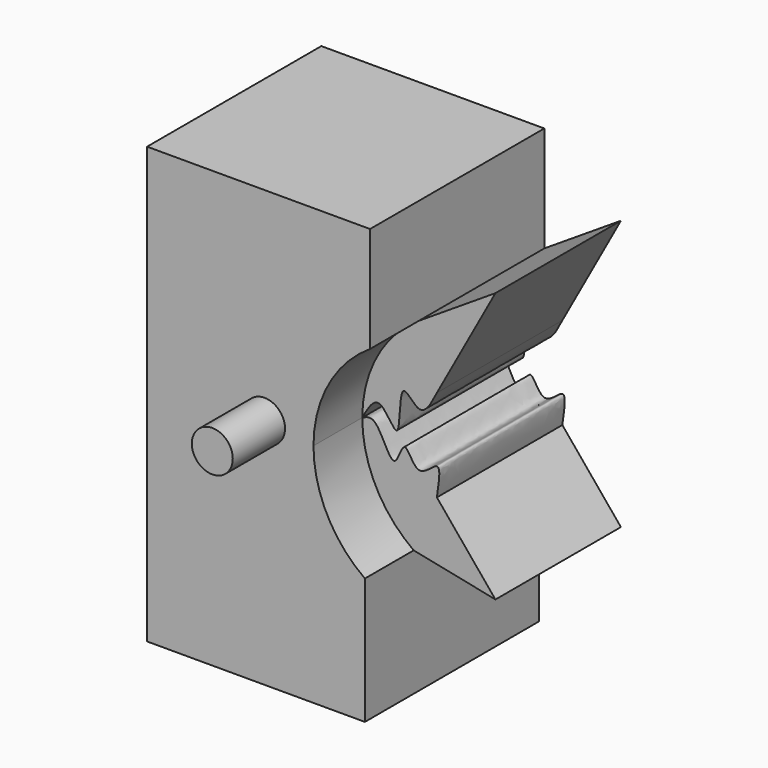
from build123d import *

# Parameters (mm, degrees)
F1_DEPTH = 25.4
F2_DEPTH = 18.288
F3_R     = 2.3874235121
F4_DEPTH = 7.62


with BuildPart() as f1:
    # F0 (on Front) → F1 (new body)
    with BuildSketch(Plane.XZ):
        with BuildLine():
            Line((-24.131346494, 56.3794554487), (-50.132939899, 56.3794554487))
            Line((-50.132939899, 56.3794554487), (-50.132939899, 5.5794554487))
            Line((-50.132939899, 5.5794554487), (-24.732939899, 5.5794554487))
            Line((-24.732939899, 5.5794554487), (-24.732939899, 20.3011780977))
            ThreePointArc((-24.732939899, 20.3011780977), (-29.1414600938, 25.4152489382), (-30.7276976446, 31.9782224489))
            ThreePointArc((-30.7276976446, 31.9782224489), (-28.9712672239, 38.862632279), (-24.131346494, 44.064104557))
            Line((-24.131346494, 44.064104557), (-24.131346494, 56.3794554487))
        make_face()
        with BuildLine():
            Line((-24.131346494, 56.3794554487), (-50.132939899, 56.3794554487))
            Line((-50.132939899, 56.3794554487), (-50.132939899, 5.5794554487))
            Line((-50.132939899, 5.5794554487), (-24.732939899, 5.5794554487))
            Line((-24.732939899, 5.5794554487), (-24.732939899, 20.3011780977))
            ThreePointArc((-24.732939899, 20.3011780977), (-29.1414600938, 25.4152489382), (-30.7276976446, 31.9782224489))
            ThreePointArc((-30.7276976446, 31.9782224489), (-28.9712672239, 38.862632279), (-24.131346494, 44.064104557))
            Line((-24.131346494, 44.064104557), (-24.131346494, 56.3794554487))
        make_face()
    extrude(amount=F1_DEPTH)

    # F0 (on Front) → F2 (join)
    with BuildSketch(Plane.XZ):
        with BuildLine():
            Line((-24.131346494, 56.3794554487), (-50.132939899, 56.3794554487))
            Line((-50.132939899, 56.3794554487), (-50.132939899, 5.5794554487))
            Line((-50.132939899, 5.5794554487), (-24.732939899, 5.5794554487))
            Line((-24.732939899, 5.5794554487), (-24.732939899, 20.3011780977))
            ThreePointArc((-24.732939899, 20.3011780977), (-29.1414600938, 25.4152489382), (-30.7276976446, 31.9782224489))
            ThreePointArc((-30.7276976446, 31.9782224489), (-28.9712672239, 38.862632279), (-24.131346494, 44.064104557))
            Line((-24.131346494, 44.064104557), (-24.131346494, 56.3794554487))
        make_face()
        with BuildLine():
            Line((-15.1963783757, 49.8111538198), (-24.131346494, 44.064104557))
            ThreePointArc((-24.131346494, 44.064104557), (-28.9712672239, 38.862632279), (-30.7276976446, 31.9782224489))
            add(Edge.make_bspline(
                [(-22.0257714391, 37.3575530945), (-22.6806760296, 36.0666983976), (-23.8831849752, 33.6964839524), (-26.6393946432, 38.4174636178), (-26.0256427545, 29.3723486265), (-28.7467670812, 35.5916543326), (-30.0639202898, 33.1890242316), (-30.7276976446, 31.9782224489)],
                knots=[0, 0, 0, 0, 0.2027027665, 0.3721945052, 0.6115618889, 0.8042472051, 1, 1, 1, 1], degree=3))
            Line((-22.0257714391, 37.3575530945), (-15.1963783757, 49.8111538198))
        make_face()
        with BuildLine():
            ThreePointArc((-30.7276976446, 31.9782224489), (-29.1414600938, 25.4152489382), (-24.732939899, 20.3011780977))
            Line((-24.732939899, 20.3011780977), (-15.1963783757, 18.3593296999))
            Line((-15.1963783757, 18.3593296999), (-22.0257714391, 26.617905125))
            add(Edge.make_bspline(
                [(-22.0257714391, 26.617905125), (-21.7809687928, 28.2276969891), (-21.3260047871, 31.2194839083), (-24.3883231118, 27.3117695941), (-25.821635029, 32.2207693678), (-26.9923703045, 26.6778642305), (-28.9416028698, 32.8219648717), (-30.2354115507, 32.2107759883), (-30.7276976446, 31.9782224489)],
                knots=[0, 0, 0, 0, 0.1869598057, 0.3474634911, 0.5111471046, 0.6652140281, 0.872616036, 1, 1, 1, 1], degree=3))
        make_face()
    extrude(amount=F2_DEPTH)

    # F3 (on face) → F4 (join)
    with BuildSketch(Plane.XZ.offset(25.4)):
        with Locations((-36.4318527281, 32.6676182449)):
            Circle(F3_R)
    extrude(amount=F4_DEPTH)


solid = f1.part
